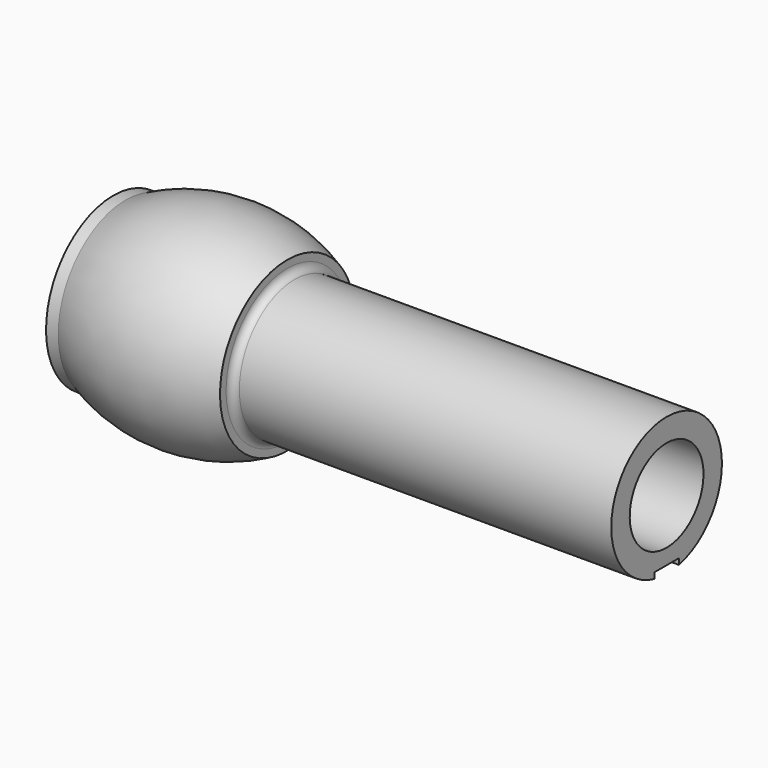
from build123d import *

# Parameters (mm, degrees)
F3_D     = 2.7178
F3_DEPTH = 11.176
F3_TIP   = 0.8165094952
F2_R     = 1.7526
F4_DEPTH = 7.112
F8_DEPTH = 1.5748
F9_R     = 1.524


with BuildPart() as f1:
    # F0 (on Front) → F1 (revolve)
    with BuildSketch(Plane.XZ):
        with BuildLine():
            ThreePointArc((35.941, 17.3736), (19.2278, 21.4249124266), (2.5146, 17.3736))
            Line((2.5146, 17.3736), (0, 17.3736))
            Line((0, 17.3736), (0, 9.525))
            Line((0, 9.525), (3.175, 9.525))
            Line((3.175, 9.525), (3.175, 6.35))
            Line((3.175, 6.35), (5.715, 6.35))
            Line((5.715, 6.35), (7.5480871047, 9.525))
            Line((7.5480871047, 9.525), (114.3, 9.525))
            Line((114.3, 9.525), (114.3, 14.2875))
            Line((114.3, 14.2875), (35.941, 14.2875))
            Line((35.941, 14.2875), (35.941, 17.3736))
        make_face()
    revolve(axis=Axis((57.15, 0, 0), (1, 0, 0)))

    # F3
    with Locations(Plane(origin=(0, 0, 0), x_dir=(0, -1, 0), z_dir=(-1, 0, 0))):
        with Locations((-13.5001, 0), (0, 13.4874), (13.5001, 0)):
            Hole(F3_D / 2, depth=F3_DEPTH)
            with Locations((0, 0, -(F3_DEPTH + F3_TIP / 2))):  # 118° drill point
                Cone(0, F3_D / 2, F3_TIP, mode=Mode.SUBTRACT)

    # F2 (on face) → F4 (cut)
    with BuildSketch(Plane(origin=(0, 0, 0), x_dir=(0, -1, 0), z_dir=(-1, 0, 0))):
        with Locations((-13.5001, 0)):
            Circle(F2_R)
        with Locations((0, 13.4874)):
            Circle(F2_R)
        with Locations((13.5001, 0)):
            Circle(F2_R)
    extrude(amount=-F4_DEPTH, mode=Mode.SUBTRACT)

    # F7 (on plane+point) → F8 (cut)
    with BuildSketch(Plane.XY.offset(-14.2875)):
        with BuildLine():
            Line((55.8546, -3.175), (114.3, -3.175))
            Line((114.3, -3.175), (114.3, 3.175))
            Line((114.3, 3.175), (55.8546, 3.175))
            ThreePointArc((55.8546, 3.175), (52.6796, 0), (55.8546, -3.175))
        make_face()
    extrude(amount=F8_DEPTH, mode=Mode.SUBTRACT)

    # F9
    f9_edges = [f1.edges().sort_by_distance(p)[0] for p in [
        (35.941, 0, -14.2875),
    ]]
    fillet(f9_edges, radius=F9_R)


solid = f1.part
